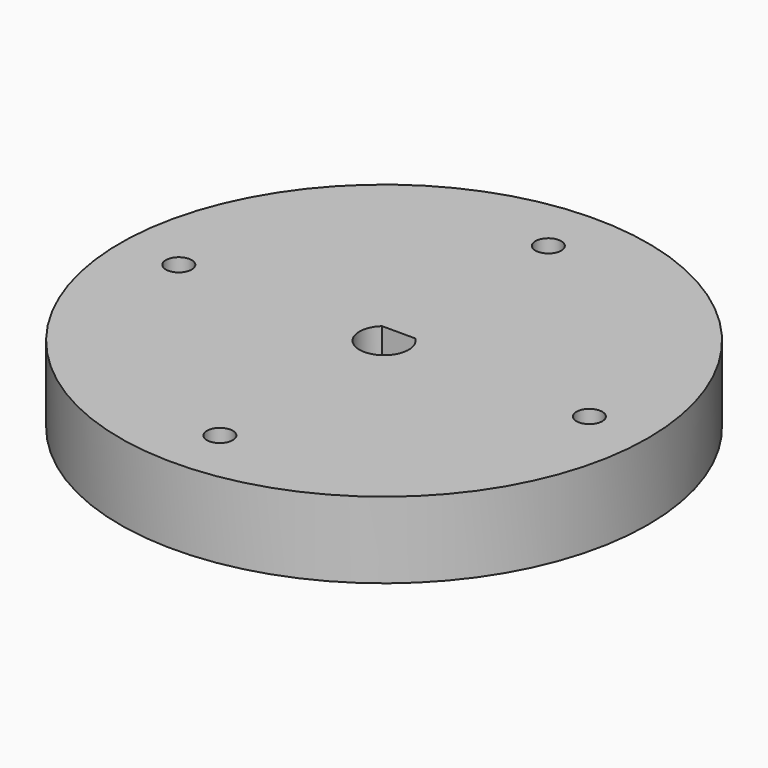
from build123d import *

# Parameters (mm, degrees)
F0_R     = 45
F1_DEPTH = 13
F3_DEPTH = 16
F4_R     = 2.2
F5_DEPTH = 14


with BuildPart() as f1:
    # F0 (on Top) → F1 (new body)
    with BuildSketch(Plane.XY):
        Circle(F0_R)
    extrude(amount=F1_DEPTH)

    # F2 (on face) → F3 (cut)
    with BuildSketch(Plane.XY.offset(13)):
        with BuildLine():
            Line((2.833725, 3.1), (-2.833725, 3.1))
            ThreePointArc((-2.833725, 3.1), (0, -4.2), (2.833725, 3.1))
        make_face()
    extrude(amount=-F3_DEPTH, mode=Mode.SUBTRACT)

    # F4 (on face) → F5 (cut)
    with BuildSketch(Plane.XY.offset(13)):
        with Locations((0, 35)):
            Circle(F4_R)
        with Locations((35, 0)):
            Circle(F4_R)
        with Locations((-35, 0)):
            Circle(F4_R)
        with Locations((0, -35)):
            Circle(F4_R)
    extrude(amount=-F5_DEPTH, mode=Mode.SUBTRACT)


solid = f1.part
